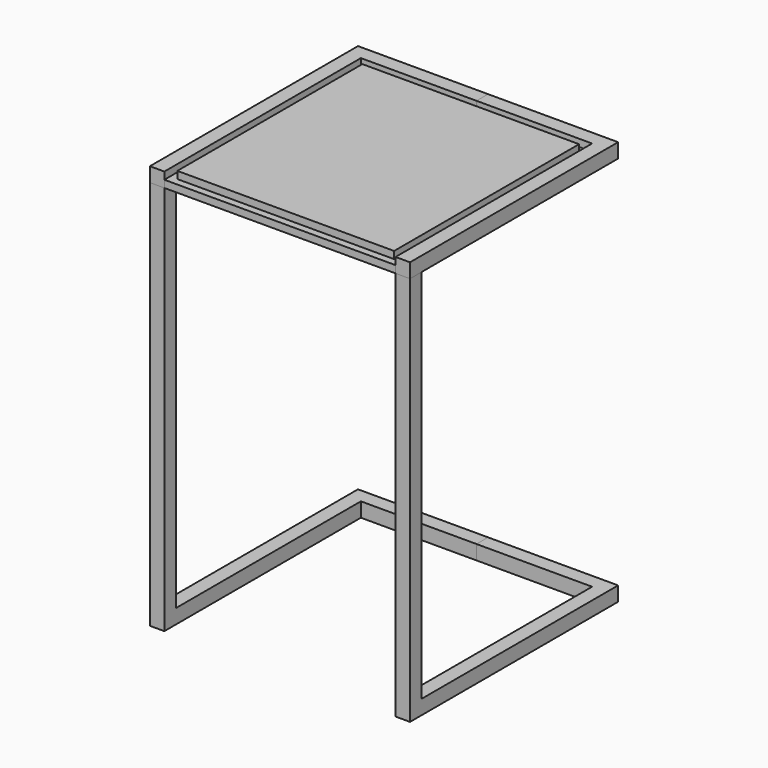
from build123d import *

# Parameters (mm, degrees)
F1_DEPTH = 25.4
F4_W     = 25.4
F4_H     = 25.4
F5_DEPTH = 660.4
F8_W     = 406.4
F8_H     = 431.8
F9_DEPTH = 25.4
F12_W    = 12.7
F12_H    = 12.7


with BuildPart() as f1:
    # F0 (on Top) → F1 (new body)
    with BuildSketch(Plane.XY):
        Polygon((228.6, 0), (0, 0), (0, -25.4), (203.2, -25.4), (203.2, -457.2), (228.6, -457.2), (228.6, -25.4), align=None)
    extrude(amount=F1_DEPTH)


with BuildPart() as f3_1:
    # F3: instance of F1
    add(f1.part.mirror(Plane.XY.offset(355.6)))


with BuildPart() as f1_1:
    add(f1.part)

    # F4 (on face) → F5 (join)
    with BuildSketch(Plane.XY.offset(25.4)):
        with Locations((215.9, -444.5)):
            Rectangle(F4_W, F4_H)
    extrude(amount=F5_DEPTH)


with BuildPart() as f6_1:
    # F6: instance of F3_1
    add(f3_1.part.mirror(Plane.YZ))


with BuildPart() as f6_2:
    # F6: instance of F1
    add(f1_1.part.mirror(Plane.YZ))


with BuildPart() as f9:
    # F8 (on offset) → F9 (new body)
    with BuildSketch(Plane.XY.offset(685.8)):
        with Locations((0, -241.3)):
            Rectangle(F8_W, F8_H)
    extrude(amount=F9_DEPTH)

    # F13: sweep along a path in F10
    with BuildLine(Plane.XY.offset(711.2)) as f13_path:
        Line((-190.5, -444.5), (-190.5, -38.1))
        Line((-190.5, -38.1), (190.5, -38.1))
        Line((190.5, -38.1), (190.5, -444.5))
        Line((190.5, -444.5), (-190.5, -444.5))
    # F12 (on offset) → F13 (sweep, cut)
    with BuildSketch(Plane.XZ.offset(444.5)):
        with Locations((-196.85, 704.85)):
            Rectangle(F12_W, F12_H)
    sweep(path=f13_path.line, transition=Transition.RIGHT, mode=Mode.SUBTRACT)


solid = Compound([f3_1.part, f1_1.part, f6_1.part, f6_2.part, f9.part])
